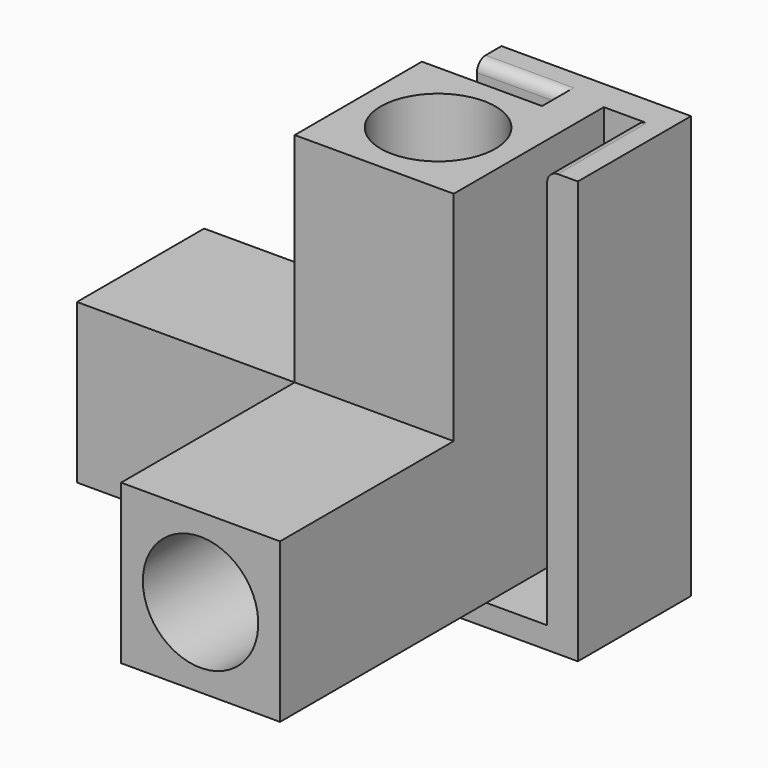
from build123d import *

# Parameters (mm, degrees)
F0_W      = 27
F0_H      = 15.9
F0_W_2    = 15.9
F0_H_2    = 27
F0_W_3    = 3
F0_H_3    = 3
F1_DEPTH  = 21.9
F2_DEPTH  = 51.8
F3_R      = 7.95
F6_DEPTH  = 30
F7_DEPTH  = 30
F4_R      = 7.9
F8_DEPTH  = 30
F10_W     = 4.4081552195
F10_H     = 4.2303893715
F11_DEPTH = 51.9
F13_DEPTH = 6.3
F14_W     = 19.4965768605
F14_H     = 3
F15_DEPTH = 26.1180568486
F16_R     = 1.5


with BuildPart() as f1:
    # F0 (on Front) → F1 (new body)
    with BuildSketch(Plane.XZ):
        with BuildLine():
            Line((-34.3576915575, 15.9), (-42.3076915575, 15.9))
            Line((-42.3076915575, 15.9), (-42.3076915575, 7.9499999931))
            ThreePointArc((-42.3076915575, 7.9499999931), (-39.9791904704, 13.571498908), (-34.3576915575, 15.9))
        make_face()
        with BuildLine():
            ThreePointArc((-34.3576915575, 15.9), (-39.9791904704, 13.571498908), (-42.3076915575, 7.9499999931))
            ThreePointArc((-42.3076915575, 7.9499999931), (-39.9791904655, 2.3285010871), (-34.3576915575, 0))
            ThreePointArc((-34.3576915575, 0), (-28.7361926471, 2.3285010896), (-26.4076915575, 7.95))
            ThreePointArc((-26.4076915575, 7.95), (-28.7361926471, 13.5714989104), (-34.3576915575, 15.9))
        make_face()
        Polygon((-42.3076915575, 18.9), (-42.3076915575, 45.9), (-26.4076915575, 45.9), (-26.4076915575, 18.9), (-23.4076915575, 18.9), (-23.4076915575, 48.9), (-45.3076915575, 48.9), (-45.3076915575, 18.9), align=None)
        with Locations((-9.9076915575, 7.95)):
            Rectangle(F0_W, F0_H)
        with Locations((-34.3576915575, 32.4)):
            Rectangle(F0_W_2, F0_H_2)
        with BuildLine():
            ThreePointArc((-34.3576915575, 0), (-39.9791904655, 2.3285010871), (-42.3076915575, 7.9499999931))
            Line((-42.3076915575, 7.9499999931), (-42.3076915575, 0))
            Line((-42.3076915575, 0), (-34.3576915575, 0))
        make_face()
        with BuildLine():
            Line((-26.4076915575, 0), (-26.4076915575, 7.95))
            ThreePointArc((-26.4076915575, 7.95), (-28.7361926471, 2.3285010896), (-34.3576915575, 0))
            Line((-34.3576915575, 0), (-26.4076915575, 0))
        make_face()
        with BuildLine():
            Line((-26.4076915575, 7.95), (-26.4076915575, 15.9))
            Line((-26.4076915575, 15.9), (-34.3576915575, 15.9))
            ThreePointArc((-34.3576915575, 15.9), (-28.7361926471, 13.5714989104), (-26.4076915575, 7.95))
        make_face()
        Polygon((6.5923084425, 18.9), (-23.4076915575, 18.9), (-23.4076915575, 15.9), (3.5923084425, 15.9), (3.5923084425, 0), (-23.4076915575, 0), (-23.4076915575, -3), (6.5923084425, -3), align=None)
        Polygon((-26.4076915575, 18.9), (-42.3076915575, 18.9), (-42.3076915575, 15.9), (-34.3576915575, 15.9), (-26.4076915575, 15.9), align=None)
        Polygon((-23.4076915575, 15.9), (-26.4076915575, 15.9), (-26.4076915575, 7.95), (-26.4076915575, 0), (-23.4076915575, 0), align=None)
        Polygon((-42.3076915575, 15.9), (-42.3076915575, 18.9), (-45.3076915575, 18.9), (-45.3076915575, -3), (-23.4076915575, -3), (-23.4076915575, 0), (-26.4076915575, 0), (-34.3576915575, 0), (-42.3076915575, 0), (-42.3076915575, 7.9499999931), align=None)
        with Locations((-24.9076915575, 17.4)):
            Rectangle(F0_W_3, F0_H_3)
    extrude(amount=F1_DEPTH)

    # F0 (on Front) → F2 (join)
    with BuildSketch(Plane.XZ):
        Polygon((-42.3076915575, 15.9), (-42.3076915575, 18.9), (-45.3076915575, 18.9), (-45.3076915575, -3), (-23.4076915575, -3), (-23.4076915575, 0), (-26.4076915575, 0), (-34.3576915575, 0), (-42.3076915575, 0), (-42.3076915575, 7.9499999931), align=None)
        with BuildLine():
            ThreePointArc((-34.3576915575, 15.9), (-39.9791904704, 13.571498908), (-42.3076915575, 7.9499999931))
            ThreePointArc((-42.3076915575, 7.9499999931), (-39.9791904655, 2.3285010871), (-34.3576915575, 0))
            ThreePointArc((-34.3576915575, 0), (-28.7361926471, 2.3285010896), (-26.4076915575, 7.95))
            ThreePointArc((-26.4076915575, 7.95), (-28.7361926471, 13.5714989104), (-34.3576915575, 15.9))
        make_face()
        Polygon((-26.4076915575, 18.9), (-42.3076915575, 18.9), (-42.3076915575, 15.9), (-34.3576915575, 15.9), (-26.4076915575, 15.9), align=None)
        Polygon((-23.4076915575, 15.9), (-26.4076915575, 15.9), (-26.4076915575, 7.95), (-26.4076915575, 0), (-23.4076915575, 0), align=None)
        with Locations((-24.9076915575, 17.4)):
            Rectangle(F0_W_3, F0_H_3)
        with BuildLine():
            Line((-26.4076915575, 7.95), (-26.4076915575, 15.9))
            Line((-26.4076915575, 15.9), (-34.3576915575, 15.9))
            ThreePointArc((-34.3576915575, 15.9), (-28.7361926471, 13.5714989104), (-26.4076915575, 7.95))
        make_face()
        with BuildLine():
            Line((-34.3576915575, 15.9), (-42.3076915575, 15.9))
            Line((-42.3076915575, 15.9), (-42.3076915575, 7.9499999931))
            ThreePointArc((-42.3076915575, 7.9499999931), (-39.9791904704, 13.571498908), (-34.3576915575, 15.9))
        make_face()
        with BuildLine():
            ThreePointArc((-34.3576915575, 0), (-39.9791904655, 2.3285010871), (-42.3076915575, 7.9499999931))
            Line((-42.3076915575, 7.9499999931), (-42.3076915575, 0))
            Line((-42.3076915575, 0), (-34.3576915575, 0))
        make_face()
        with BuildLine():
            Line((-26.4076915575, 0), (-26.4076915575, 7.95))
            ThreePointArc((-26.4076915575, 7.95), (-28.7361926471, 2.3285010896), (-34.3576915575, 0))
            Line((-34.3576915575, 0), (-26.4076915575, 0))
        make_face()
    extrude(amount=F2_DEPTH)

    # F3 (on face) → F6 (cut)
    with BuildSketch(Plane.XZ.offset(51.8)):
        with Locations((-34.3576915575, 7.95)):
            Circle(F3_R)
    extrude(amount=-F6_DEPTH, mode=Mode.SUBTRACT)

    # F5 (on face) → F7 (cut)
    with BuildSketch(Plane.YZ.offset(6.5923084425)):
        with BuildLine():
            ThreePointArc((-3, 7.95), (-5.3285010896, 13.5714989104), (-10.95, 15.9))
            ThreePointArc((-10.95, 15.9), (-16.5714989104, 13.5714989104), (-18.9, 7.95))
            ThreePointArc((-18.9, 7.95), (-16.5714989104, 2.3285010896), (-10.95, 0))
            ThreePointArc((-10.95, 0), (-5.3285010896, 2.3285010896), (-3, 7.95))
        make_face()
    extrude(amount=-F7_DEPTH, mode=Mode.SUBTRACT)

    # F4 (on face) → F8 (cut)
    with BuildSketch(Plane.XY.offset(48.9)):
        with Locations((-34.3576915575, -10.9)):
            Circle(F4_R)
    extrude(amount=-F8_DEPTH, mode=Mode.SUBTRACT)

    # F10 (on face) → F11 (join)
    with BuildSketch(Plane.XY.offset(48.9)):
        Polygon((-49.715846777, -11.3178612664), (-49.715846777, 3.9483262226), (-49.715846777, 8.1787155941), (-53.9462342858, 8.1787155941), (-53.9462342858, -11.3178612664), align=None)
        with Locations((-47.5117691672, 6.0635209084)):
            Rectangle(F10_W, F10_H)
        Polygon((-45.3076915575, 3.9483262226), (-45.3076915575, 0), (-39.9675555527, 0), (-39.9675555527, 3.9483262226), (-27.8281774372, 3.9483262226), (-27.8281774372, 8.1787155941), (-45.3076915575, 8.1787155941), align=None)
    extrude(amount=-F11_DEPTH)

    # F12 (on face) → F13 (join)
    with BuildSketch(Plane(origin=(0, 0, -3), x_dir=(1, 0, 0), z_dir=(0, 0, -1))):
        Polygon((-49.715846777, -8.1787155941), (-49.715846777, -3.9483262226), (-49.715846777, 11.3178612664), (-53.9462342858, 11.3178612664), (-53.9462342858, -8.1787155941), align=None)
    extrude(amount=F13_DEPTH)

    # F14 (on face) → F15 (join, through all)
    with BuildSketch(Plane(origin=(-53.9462342858, 0, 0), x_dir=(0, -1, 0), z_dir=(-1, 0, 0))):
        with Locations((1.5695728362, -7.8)):
            Rectangle(F14_W, F14_H)
    extrude(amount=-F15_DEPTH)

    # F16
    f16_edges = [f1.edges().sort_by_distance(p)[0] for p in [
        (-38.772012, 8.178716, -6.3),
        (-38.772012, 8.178716, -3),
        (-33.897866, 3.948326, 48.9),
        (-49.715847, -3.684768, 48.9),
        (-49.715847, 8.178716, -4.65),
    ]]
    fillet(f16_edges, radius=F16_R)


with BuildPart() as f17_1:
    # F17: instance of F1
    add(f1.part.mirror(Plane(origin=(6.5923084425, -10.95, 7.95), x_dir=(0, 1, 0), z_dir=(1, 0, 0))))


solid = f17_1.part
